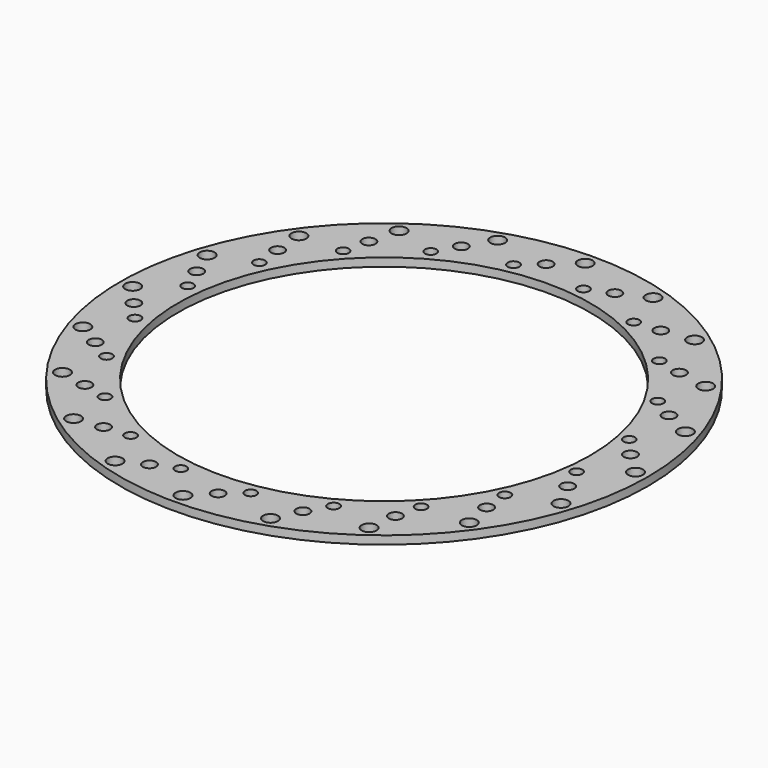
from build123d import *

# Parameters (mm, degrees)
F0_R     = 160
F0_R_2   = 4.5
F0_R_3   = 4
F0_R_4   = 3.5
F0_R_5   = 125
F1_DEPTH = 5


with BuildPart() as f1:
    # F0 (on Top) → F1 (new body)
    with BuildSketch(Plane.XY):
        Circle(F0_R)
        with Locations((-89.58033, -123.296747)):
            Circle(F0_R_2, mode=Mode.SUBTRACT)
        with Locations((-123.296747, -89.58033)):
            Circle(F0_R_2, mode=Mode.SUBTRACT)
        with Locations((-106.988743, -92.985752)):
            Circle(F0_R_3, mode=Mode.SUBTRACT)
        with Locations((-91.955953, -96.538456)):
            Circle(F0_R_4, mode=Mode.SUBTRACT)
        with Locations((-47.095167, -144.944019)):
            Circle(F0_R_2, mode=Mode.SUBTRACT)
        with Locations((-73.121028, -121.182326)):
            Circle(F0_R_3, mode=Mode.SUBTRACT)
        with Locations((-32.197696, -137.533162)):
            Circle(F0_R_3, mode=Mode.SUBTRACT)
        with Locations((-17.947687, -131.571308)):
            Circle(F0_R_4, mode=Mode.SUBTRACT)
        with Locations((-57.726149, -119.915761)):
            Circle(F0_R_4, mode=Mode.SUBTRACT)
        with Locations((-144.944019, -47.095167)):
            Circle(F0_R_2, mode=Mode.SUBTRACT)
        with Locations((-130.485633, -55.703517)):
            Circle(F0_R_3, mode=Mode.SUBTRACT)
        with Locations((-117.286447, -63.727727)):
            Circle(F0_R_4, mode=Mode.SUBTRACT)
        with Locations((-131.238105, -24.695316)):
            Circle(F0_R_4, mode=Mode.SUBTRACT)
        with Locations((-141.31166, -12.985067)):
            Circle(F0_R_3, mode=Mode.SUBTRACT)
        with Locations((0, -152.403161)):
            Circle(F0_R_2, mode=Mode.SUBTRACT)
        with Locations((11.775392, -140.437726)):
            Circle(F0_R_3, mode=Mode.SUBTRACT)
        with Locations((23.485642, -130.364171)):
            Circle(F0_R_4, mode=Mode.SUBTRACT)
        with Locations((47.095167, -144.944019)):
            Circle(F0_R_2, mode=Mode.SUBTRACT)
        with Locations((54.493843, -129.611699)):
            Circle(F0_R_3, mode=Mode.SUBTRACT)
        with Locations((62.518052, -116.412512)):
            Circle(F0_R_4, mode=Mode.SUBTRACT)
        with Locations((89.58033, -123.296747)):
            Circle(F0_R_2, mode=Mode.SUBTRACT)
        with Locations((91.776078, -106.114808)):
            Circle(F0_R_3, mode=Mode.SUBTRACT)
        with Locations((95.328782, -91.082019)):
            Circle(F0_R_4, mode=Mode.SUBTRACT)
        with Locations((123.296747, -89.58033)):
            Circle(F0_R_2, mode=Mode.SUBTRACT)
        with Locations((119.972651, -72.247093)):
            Circle(F0_R_3, mode=Mode.SUBTRACT)
        with Locations((118.706086, -56.852215)):
            Circle(F0_R_4, mode=Mode.SUBTRACT)
        with Locations((144.944019, -47.095167)):
            Circle(F0_R_2, mode=Mode.SUBTRACT)
        with Locations((136.323487, -31.323761)):
            Circle(F0_R_3, mode=Mode.SUBTRACT)
        with Locations((130.361633, -17.073752)):
            Circle(F0_R_4, mode=Mode.SUBTRACT)
        with Locations((-152.403161, 0)):
            Circle(F0_R_2, mode=Mode.SUBTRACT)
        with Locations((-132.445243, 16.738012)):
            Circle(F0_R_4, mode=Mode.SUBTRACT)
        with Locations((-138.407097, 30.988021)):
            Circle(F0_R_3, mode=Mode.SUBTRACT)
        with Locations((-144.944019, 47.095167)):
            Circle(F0_R_2, mode=Mode.SUBTRACT)
        with Locations((-120.789696, 56.516474)):
            Circle(F0_R_4, mode=Mode.SUBTRACT)
        with Locations((-122.056261, 71.911353)):
            Circle(F0_R_3, mode=Mode.SUBTRACT)
        with Locations((-123.296747, 89.58033)):
            Circle(F0_R_2, mode=Mode.SUBTRACT)
        with Locations((-97.412391, 90.746279)):
            Circle(F0_R_4, mode=Mode.SUBTRACT)
        with Locations((-93.859687, 105.779068)):
            Circle(F0_R_3, mode=Mode.SUBTRACT)
        with Locations((-89.58033, 123.296747)):
            Circle(F0_R_2, mode=Mode.SUBTRACT)
        with Locations((-64.601662, 116.076772)):
            Circle(F0_R_4, mode=Mode.SUBTRACT)
        with Locations((-56.577452, 129.275959)):
            Circle(F0_R_3, mode=Mode.SUBTRACT)
        with Locations((-47.095167, 144.944019)):
            Circle(F0_R_2, mode=Mode.SUBTRACT)
        with Locations((-25.569251, 130.028431)):
            Circle(F0_R_4, mode=Mode.SUBTRACT)
        with Locations((-13.859001, 140.101986)):
            Circle(F0_R_3, mode=Mode.SUBTRACT)
        Circle(F0_R_5, mode=Mode.SUBTRACT)
        with Locations((139.228051, 12.649326)):
            Circle(F0_R_3, mode=Mode.SUBTRACT)
        with Locations((152.403161, 0)):
            Circle(F0_R_2, mode=Mode.SUBTRACT)
        with Locations((129.154496, 24.359576)):
            Circle(F0_R_4, mode=Mode.SUBTRACT)
        with Locations((115.202838, 63.391987)):
            Circle(F0_R_4, mode=Mode.SUBTRACT)
        with Locations((128.402024, 55.367777)):
            Circle(F0_R_3, mode=Mode.SUBTRACT)
        with Locations((144.944019, 47.095167)):
            Circle(F0_R_2, mode=Mode.SUBTRACT)
        with Locations((55.64254, 119.580021)):
            Circle(F0_R_4, mode=Mode.SUBTRACT)
        with Locations((15.864077, 131.235568)):
            Circle(F0_R_4, mode=Mode.SUBTRACT)
        with Locations((30.114086, 137.197422)):
            Circle(F0_R_3, mode=Mode.SUBTRACT)
        with Locations((0, 152.403161)):
            Circle(F0_R_2, mode=Mode.SUBTRACT)
        with Locations((71.037418, 120.846586)):
            Circle(F0_R_3, mode=Mode.SUBTRACT)
        with Locations((47.095167, 144.944019)):
            Circle(F0_R_2, mode=Mode.SUBTRACT)
        with Locations((89.872344, 96.202716)):
            Circle(F0_R_4, mode=Mode.SUBTRACT)
        with Locations((104.905133, 92.650012)):
            Circle(F0_R_3, mode=Mode.SUBTRACT)
        with Locations((123.296747, 89.58033)):
            Circle(F0_R_2, mode=Mode.SUBTRACT)
        with Locations((89.58033, 123.296747)):
            Circle(F0_R_2, mode=Mode.SUBTRACT)
    extrude(amount=F1_DEPTH)


solid = f1.part
